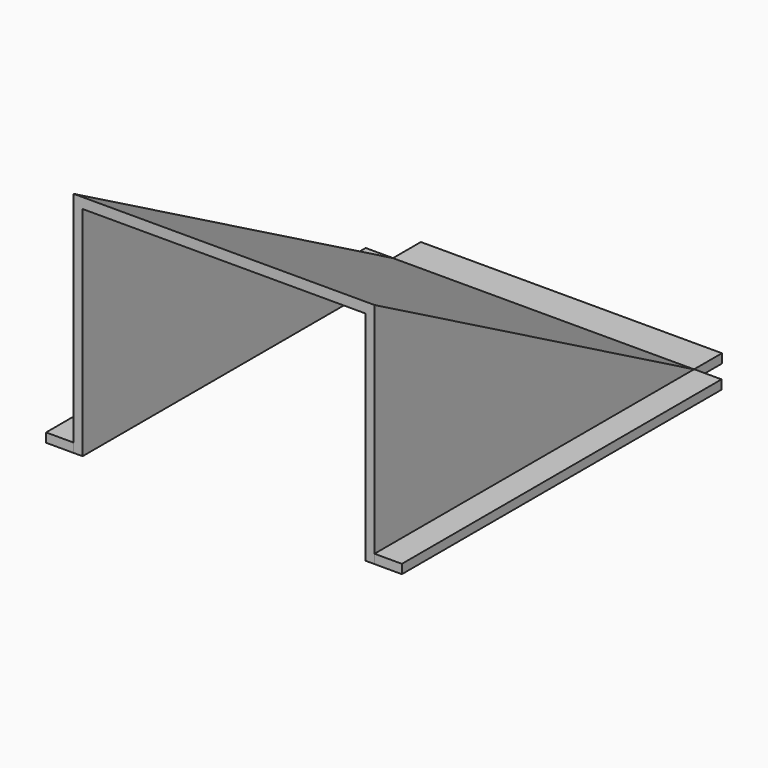
from build123d import *

# Parameters (mm, degrees)
F1_DEPTH = 203.2
F2_DEPTH = 6.35
F4_DEPTH = 6.35
F5_W     = 19.05
F5_H     = 278.024951
F5_W_2   = 209.55
F5_H_2   = 12.7
F5_H_3   = 278.110252
F6_DEPTH = 6.35


with BuildPart() as f1:
    # F0 (on Right) → F1 (new body)
    with BuildSketch(Plane.YZ):
        Polygon((0, 6.35), (-11.581397, 6.35), (-289.534933, 158.75), (-289.534933, 151.508147), (-13.207997, 0), (0, 0), align=None)
    extrude(amount=F1_DEPTH)

    # F0 (on Right) → F2 (join)
    with BuildSketch(Plane.YZ):
        Polygon((-13.207997, 0), (-289.534933, 151.508147), (-289.534933, 0), align=None)
    extrude(amount=F2_DEPTH)

    # F3 (on face) → F4 (join)
    with BuildSketch(Plane.YZ.offset(203.2)):
        Polygon((-11.581397, 6.35), (-289.534933, 158.75), (-289.534933, 0), (0, 0), (0, 6.35), align=None)
    extrude(amount=F4_DEPTH)

    # F5 (on Top) → F6 (join)
    with BuildSketch(Plane.XY):
        with Locations((-9.525, -150.547525)):
            Rectangle(F5_W, F5_H)
        with Locations((104.775, 6.35)):
            Rectangle(F5_W_2, F5_H_2)
        with Locations((219.075, -150.504874)):
            Rectangle(F5_W, F5_H_3)
    extrude(amount=F6_DEPTH)


solid = f1.part
